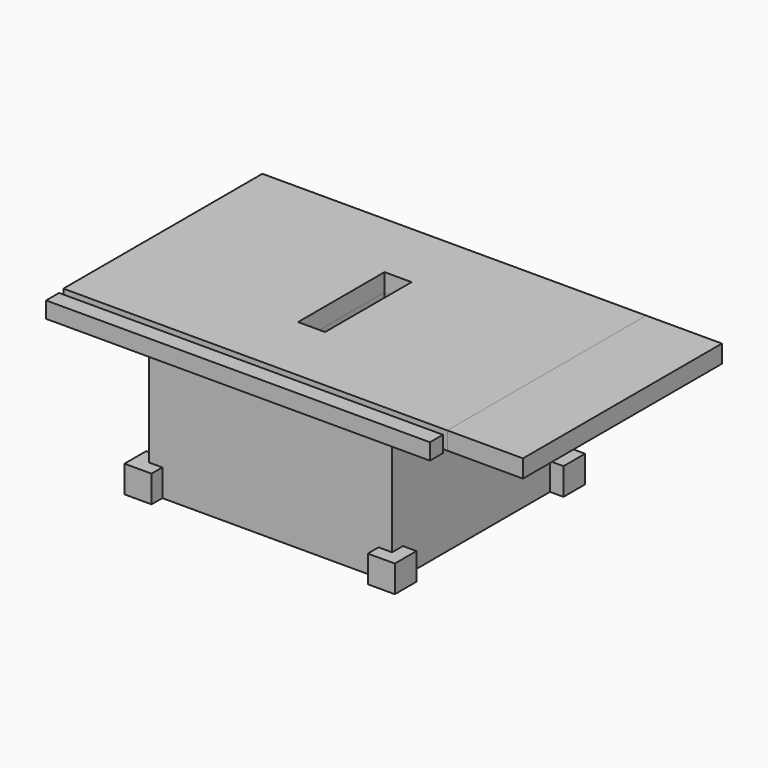
from build123d import *

# Parameters (mm, degrees)
F0_W     = 50
F0_H     = 200
F0_W_2   = 25
F0_H_2   = 25
F1_DEPTH = 272
F2_DEPTH = 50
F3_W     = 710
F3_H     = 460
F3_W_2   = 450
F3_H_2   = 390
F3_W_3   = 50
F3_H_3   = 200
F4_DEPTH = 33
F3_H_4   = 30
F5_DEPTH = 30
F3_W_4   = 140
F6_DEPTH = 33


with BuildPart() as f1:
    # F0 (on Top) → F1 (new body)
    with BuildSketch(Plane.XY):
        Polygon((-200, -195), (200, -195), (200, -170), (225, -170), (225, 170), (200, 170), (200, 195), (-200, 195), (-200, 170), (-225, 170), (-225, -170), (-200, -170), align=None)
        Rectangle(F0_W, F0_H, mode=Mode.SUBTRACT)
        with Locations((-212.5, 182.5)):
            Rectangle(F0_W_2, F0_H_2)
        with Locations((-212.5, -182.5)):
            Rectangle(F0_W_2, F0_H_2)
        with Locations((212.5, -182.5)):
            Rectangle(F0_W_2, F0_H_2)
        with Locations((212.5, 182.5)):
            Rectangle(F0_W_2, F0_H_2)
    extrude(amount=F1_DEPTH)


with BuildPart() as f2:
    # F0 (on Top) → F2 (new body)
    with BuildSketch(Plane.XY):
        Polygon((-250, 170), (-225, 170), (-225, 195), (-200, 195), (-200, 220), (-250, 220), align=None)
    extrude(amount=F2_DEPTH)


with BuildPart() as f2b:
    # F0 (on Top) → F2, piece 2 (new body)
    with BuildSketch(Plane.XY):
        Polygon((-200, -220), (-200, -195), (-225, -195), (-225, -170), (-250, -170), (-250, -220), align=None)
    extrude(amount=F2_DEPTH)


with BuildPart() as f2c:
    # F0 (on Top) → F2, piece 3 (new body)
    with BuildSketch(Plane.XY):
        Polygon((225, -170), (225, -195), (200, -195), (200, -220), (250, -220), (250, -170), align=None)
    extrude(amount=F2_DEPTH)


with BuildPart() as f2d:
    # F0 (on Top) → F2, piece 4 (new body)
    with BuildSketch(Plane.XY):
        Polygon((225, 195), (225, 170), (250, 170), (250, 220), (200, 220), (200, 195), align=None)
    extrude(amount=F2_DEPTH)


with BuildPart() as f4:
    # F3 (on face) → F4 (new body)
    with BuildSketch(Plane.XY.offset(272)):
        Rectangle(F3_W, F3_H)
        Rectangle(F3_W_2, F3_H_2, mode=Mode.SUBTRACT)
        Rectangle(F3_W_2, F3_H_2)
        Rectangle(F3_W_3, F3_H_3, mode=Mode.SUBTRACT)
    extrude(amount=F4_DEPTH)


with BuildPart() as f5:
    # F3 (on face) → F5 (new body)
    with BuildSketch(Plane.XY.offset(272)):
        with Locations((0, -255)):
            Rectangle(F3_W, F3_H_4)
    extrude(amount=F5_DEPTH)


with BuildPart() as f6:
    # F3 (on face) → F6 (new body)
    with BuildSketch(Plane.XY.offset(272)):
        with Locations((425, 0)):
            Rectangle(F3_W_4, F3_H)
    extrude(amount=F6_DEPTH)


solid = Compound([f1.part, f2.part, f2b.part, f2c.part, f2d.part, f4.part, f5.part, f6.part])
